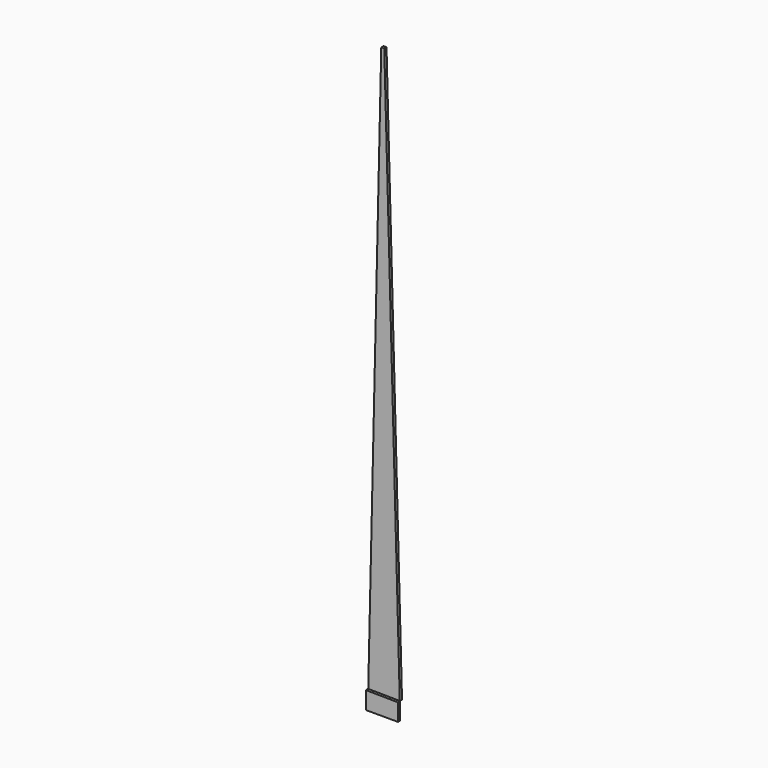
from build123d import *

# Parameters (mm, degrees)
F1_DEPTH = 25.4
F3_DEPTH = 25.4


with BuildPart() as f1:
    # F0 (on Front) → F1 (new body)
    with BuildSketch(Plane.XZ):
        Polygon((142.6013857126, 77.5552615523), (-145.6644237041, 80.9822902083), (-145.6644237041, -77.3728713393), (142.6013857126, -77.3728713393), align=None)
    extrude(amount=F1_DEPTH)


with BuildPart() as f3:
    # F2 (on face) → F3 (new body)
    with BuildSketch(Plane(origin=(0, 0, 0), x_dir=(-1, 0, 0), z_dir=(0, 1, 0))):
        Polygon((-137.5883387488, 77.6148588235), (141.3368386675, 80.9308420052), (13.6248651723, 4752.6540945443), align=None)
        Polygon((-137.5883387488, 77.6148588235), (13.6248651723, 4752.6540945443), (1.2072325917, 5206.8929672241), (-138.3837304771, 77.6054028625), align=None)
        Polygon((13.6248651723, 4752.6540945443), (28.3171301609, 5206.8929672241), (1.2072325917, 5206.8929672241), align=None)
        Polygon((141.3368386675, 80.9308420052), (145.6644237041, 80.9822902083), (28.3171301609, 5206.8929672241), (13.6248651723, 4752.6540945443), align=None)
    extrude(amount=F3_DEPTH)


solid = Compound([f1.part, f3.part])
